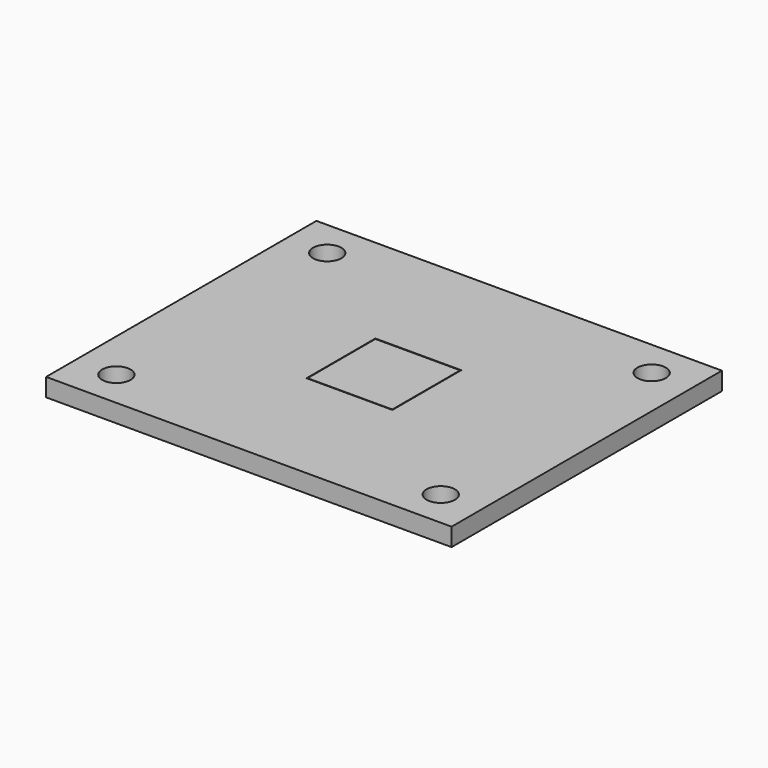
from build123d import *

# Parameters (mm, degrees)
F1_W     = 90
F1_H     = 75
F1_R     = 3.15
F2_DEPTH = 4
F3_W     = 19.1
F3_H     = 19.1
F4_W     = 19
F4_H     = 19
F4_W_2   = 19.1
F4_H_2   = 19.1
F5_DEPTH = 0.1
F6_W     = 18.8
F6_H     = 18.8
F7_DEPTH = 0.1


with BuildPart() as f2:
    # F1 (on face) → F2 (new body)
    with BuildSketch(Plane.XY):
        with Locations((-1.603169, 10.190485)):
            Rectangle(F1_W, F1_H)
        with Locations((-37.603169, -19.059515)):
            Circle(F1_R, mode=Mode.SUBTRACT)
        with Locations((34.396831, -19.059515)):
            Circle(F1_R, mode=Mode.SUBTRACT)
        with Locations((-37.603169, 39.440485)):
            Circle(F1_R, mode=Mode.SUBTRACT)
        with Locations((34.396831, 39.440485)):
            Circle(F1_R, mode=Mode.SUBTRACT)
    extrude(amount=F2_DEPTH)

    # F3 (on face) + F4 (on face) → F5 (cut)
    with BuildSketch(Plane.XY.offset(4)):
        with Locations((-1.493169, 10.050485)):
            Rectangle(F3_W, F3_H)
    with BuildSketch(Plane.XY.offset(4)):
        with Locations((-1.496693, 10.04078)):
            Rectangle(F4_W, F4_H)
        with Locations((-1.493169, 10.050485)):
            Rectangle(F4_W_2, F4_H_2)
        with Locations((-1.496693, 10.04078)):
            Rectangle(F4_W, F4_H, mode=Mode.SUBTRACT)
    extrude(amount=-F5_DEPTH, mode=Mode.SUBTRACT)

    # F6 (on face) → F7 (join)
    with BuildSketch(Plane.XY.offset(3.9)):
        with Locations((-1.504565, 10.029633)):
            Rectangle(F6_W, F6_H)
    extrude(amount=F7_DEPTH)


solid = f2.part
